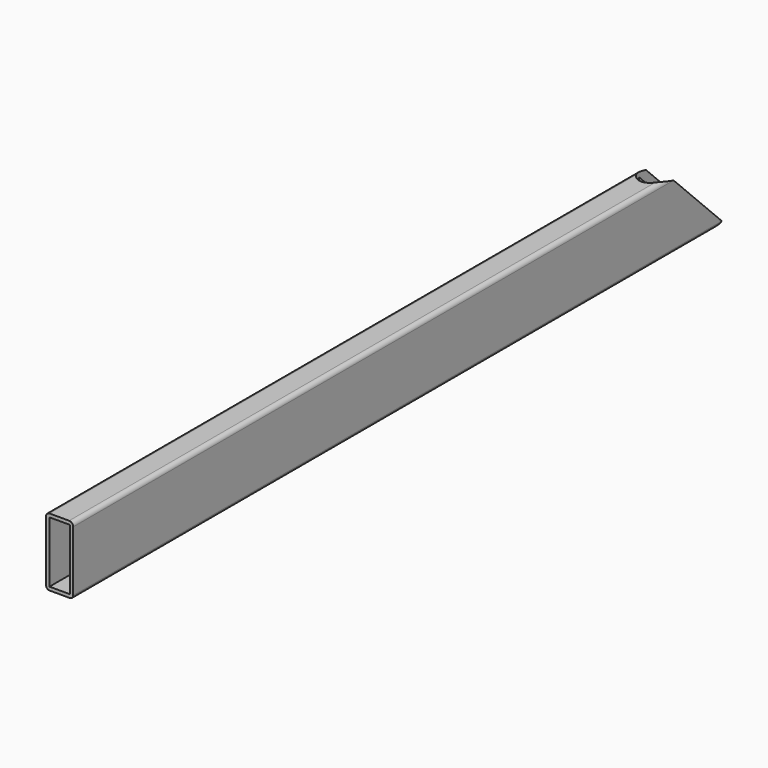
from build123d import *

# Parameters (mm, degrees)
F1_DEPTH = 1524
F4_DEPTH = 206.1339983115


with BuildPart() as f1:
    # F0 (on Front) → F1 (new body)
    with BuildSketch(Plane.XZ):
        with BuildLine():
            Line((17.78, 63.5), (-19.05, 63.5))
            ThreePointArc((-19.05, 63.5), (-23.5401280605, 61.6401280605), (-25.4, 57.15))
            Line((-25.4, 57.15), (-25.4, -57.15))
            ThreePointArc((-25.4, -57.15), (-23.5401280605, -61.6401280605), (-19.05, -63.5))
            Line((-19.05, -63.5), (19.05, -63.5))
            ThreePointArc((19.05, -63.5), (23.5401280605, -61.6401280605), (25.4, -57.15))
            Line((25.4, -57.15), (25.4, 55.88))
            ThreePointArc((25.4, 55.88), (23.1681536726, 61.2681536726), (17.78, 63.5))
        make_face()
        with BuildLine():
            Line((-19.05, -57.15), (-19.05, 57.15))
            Line((-19.05, 57.15), (17.78, 57.15))
            ThreePointArc((17.78, 57.15), (18.6780256121, 56.7780256121), (19.05, 55.88))
            Line((19.05, 55.88), (19.05, -57.15))
            Line((19.05, -57.15), (-19.05, -57.15))
        make_face(mode=Mode.SUBTRACT)
    extrude(amount=F1_DEPTH)

    # F3 (on face) → F4 (cut, up to face)
    with BuildSketch(Plane(origin=(0, 31.75, -31.75), x_dir=(1, 0, 0), z_dir=(0, -0.7071067812, 0.7071067812))):
        with BuildLine():
            Line((-63.1749629974, -44.6670614183), (-25.3974046305, -44.6670614183))
            ThreePointArc((-25.3974046305, -44.6670614183), (0, -70.4301564954), (25.3974046305, -44.6670614183))
            Line((25.3974046305, -44.6670614183), (58.091904968, -44.6670614183))
            Line((58.091904968, -44.6670614183), (58.091904968, 59.898365289))
            Line((58.091904968, 59.898365289), (-63.1749629974, 59.898365289))
            Line((-63.1749629974, 59.898365289), (-63.1749629974, -44.6670614183))
        make_face()
    extrude(amount=F4_DEPTH, mode=Mode.SUBTRACT)


solid = f1.part
